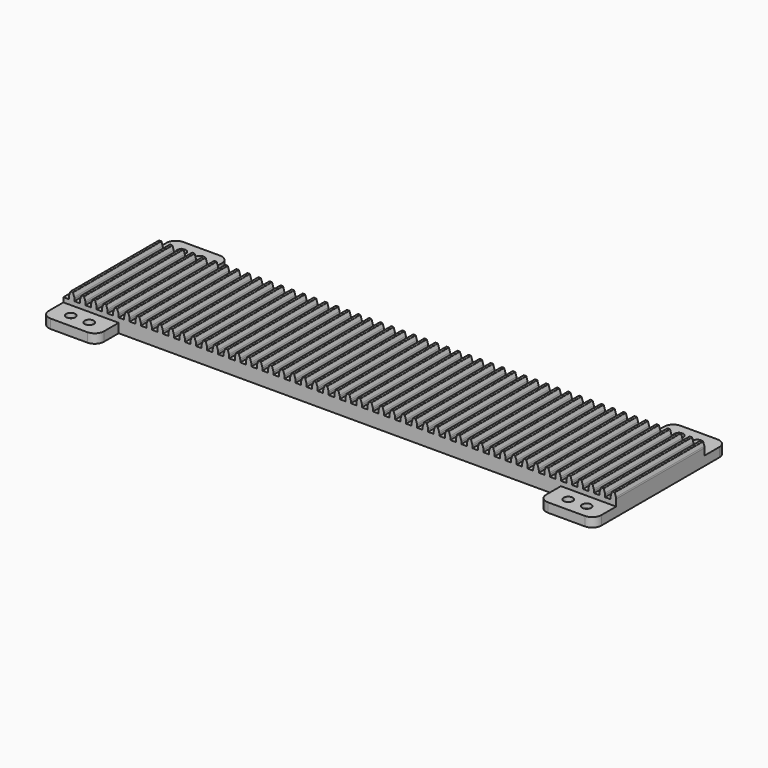
from build123d import *

# Parameters (mm, degrees)
F1_DEPTH       = 12.7
F2_W           = 762
F2_H           = 152.4
F3_DEPTH       = 6.35
F4_D           = 6.35
F4_CBORE_D     = 12.7
F4_CBORE_DEPTH = 6.35
F7_DEPTH       = 152.4


with BuildPart() as f1:
    # F0 (on Top) → F1 (new body)
    with BuildSketch(Plane.XY):
        with BuildLine():
            Line((0, 215.9), (0, 12.7))
            ThreePointArc((0, 12.7), (3.719744, 3.719744), (12.7, 0))
            Line((12.7, 0), (63.5, 0))
            ThreePointArc((63.5, 0), (72.480256, 3.719744), (76.2, 12.7))
            Line((76.2, 12.7), (76.2, 38.1))
            Line((76.2, 38.1), (381, 38.1))
            Line((381, 38.1), (685.8, 38.1))
            Line((685.8, 38.1), (685.8, 12.7))
            ThreePointArc((685.8, 12.7), (689.519744, 3.719744), (698.5, 0))
            Line((698.5, 0), (749.3, 0))
            ThreePointArc((749.3, 0), (758.280256, 3.719744), (762, 12.7))
            Line((762, 12.7), (762, 215.9))
            ThreePointArc((762, 215.9), (758.280256, 224.880256), (749.3, 228.6))
            Line((749.3, 228.6), (698.5, 228.6))
            ThreePointArc((698.5, 228.6), (689.519744, 224.880256), (685.8, 215.9))
            Line((685.8, 215.9), (685.8, 190.5))
            Line((685.8, 190.5), (381, 190.5))
            Line((381, 190.5), (76.2, 190.5))
            Line((76.2, 190.5), (76.2, 215.9))
            ThreePointArc((76.2, 215.9), (72.480256, 224.880256), (63.5, 228.6))
            Line((63.5, 228.6), (12.7, 228.6))
            ThreePointArc((12.7, 228.6), (3.719744, 224.880256), (0, 215.9))
        make_face()
    extrude(amount=F1_DEPTH)

    # F2 (on face) → F3 (join)
    with BuildSketch(Plane.XY.offset(12.7)):
        with Locations((381, 114.3)):
            Rectangle(F2_W, F2_H)
    extrude(amount=F3_DEPTH)

    # F4 (through all)
    with Locations(Plane.XY.offset(12.7)):
        with Locations((736.6, 209.55), (711.2, 209.55), (736.6, 19.05), (711.2, 19.05), (50.8, 209.55), (25.4, 209.55), (50.8, 19.05), (25.4, 19.05)):
            CounterBoreHole(F4_D / 2, F4_CBORE_D / 2, F4_CBORE_DEPTH)

    # F6 (on face) → F7 (join)
    with BuildSketch(Plane.XZ.offset(-38.1)):
        with BuildLine():
            Line((7.62, 21.992523), (7.62, 19.05))
            Line((7.62, 19.05), (15.24, 19.05))
            Line((15.24, 19.05), (15.24, 21.992523))
            ThreePointArc((15.24, 21.992523), (15.15965, 22.999495), (14.920632, 23.980983))
            Line((14.920632, 23.980983), (13.340298, 28.773846))
            ThreePointArc((13.340298, 28.773846), (13.109362, 29.089535), (12.737235, 29.21))
            Line((12.737235, 29.21), (11.43, 29.21))
            Line((11.43, 29.21), (10.122765, 29.21))
            ThreePointArc((10.122765, 29.21), (9.750638, 29.089535), (9.519702, 28.773846))
            Line((9.519702, 28.773846), (7.939368, 23.980983))
            ThreePointArc((7.939368, 23.980983), (7.70035, 22.999495), (7.62, 21.992523))
        make_face()
        with BuildLine():
            ThreePointArc((28.580298, 28.773846), (28.349362, 29.089535), (27.977235, 29.21))
            Line((27.977235, 29.21), (26.67, 29.21))
            Line((26.67, 29.21), (25.362765, 29.21))
            ThreePointArc((25.362765, 29.21), (24.990638, 29.089535), (24.759702, 28.773846))
            Line((24.759702, 28.773846), (23.179368, 23.980983))
            ThreePointArc((23.179368, 23.980983), (22.94035, 22.999495), (22.86, 21.992523))
            Line((22.86, 21.992523), (22.86, 19.05))
            Line((22.86, 19.05), (30.48, 19.05))
            Line((30.48, 19.05), (30.48, 21.992523))
            ThreePointArc((30.48, 21.992523), (30.39965, 22.999495), (30.160632, 23.980983))
            Line((30.160632, 23.980983), (28.580298, 28.773846))
        make_face()
        with BuildLine():
            ThreePointArc((43.820298, 28.773846), (43.589362, 29.089535), (43.217235, 29.21))
            Line((43.217235, 29.21), (41.91, 29.21))
            Line((41.91, 29.21), (40.602765, 29.21))
            ThreePointArc((40.602765, 29.21), (40.230638, 29.089535), (39.999702, 28.773846))
            Line((39.999702, 28.773846), (38.419368, 23.980983))
            ThreePointArc((38.419368, 23.980983), (38.18035, 22.999495), (38.1, 21.992523))
            Line((38.1, 21.992523), (38.1, 19.05))
            Line((38.1, 19.05), (45.72, 19.05))
            Line((45.72, 19.05), (45.72, 21.992523))
            ThreePointArc((45.72, 21.992523), (45.63965, 22.999495), (45.400632, 23.980983))
            Line((45.400632, 23.980983), (43.820298, 28.773846))
        make_face()
        with BuildLine():
            ThreePointArc((59.060298, 28.773846), (58.829362, 29.089535), (58.457235, 29.21))
            Line((58.457235, 29.21), (57.15, 29.21))
            Line((57.15, 29.21), (55.842765, 29.21))
            ThreePointArc((55.842765, 29.21), (55.470638, 29.089535), (55.239702, 28.773846))
            Line((55.239702, 28.773846), (53.659368, 23.980983))
            ThreePointArc((53.659368, 23.980983), (53.42035, 22.999495), (53.34, 21.992523))
            Line((53.34, 21.992523), (53.34, 19.05))
            Line((53.34, 19.05), (60.96, 19.05))
            Line((60.96, 19.05), (60.96, 21.992523))
            ThreePointArc((60.96, 21.992523), (60.87965, 22.999495), (60.640632, 23.980983))
            Line((60.640632, 23.980983), (59.060298, 28.773846))
        make_face()
        with BuildLine():
            ThreePointArc((74.300298, 28.773846), (74.069362, 29.089535), (73.697235, 29.21))
            Line((73.697235, 29.21), (72.39, 29.21))
            Line((72.39, 29.21), (71.082765, 29.21))
            ThreePointArc((71.082765, 29.21), (70.710638, 29.089535), (70.479702, 28.773846))
            Line((70.479702, 28.773846), (68.899368, 23.980983))
            ThreePointArc((68.899368, 23.980983), (68.66035, 22.999495), (68.58, 21.992523))
            Line((68.58, 21.992523), (68.58, 19.05))
            Line((68.58, 19.05), (76.2, 19.05))
            Line((76.2, 19.05), (76.2, 21.992523))
            ThreePointArc((76.2, 21.992523), (76.11965, 22.999495), (75.880632, 23.980983))
            Line((75.880632, 23.980983), (74.300298, 28.773846))
        make_face()
        with BuildLine():
            ThreePointArc((89.540298, 28.773846), (89.309362, 29.089535), (88.937235, 29.21))
            Line((88.937235, 29.21), (87.63, 29.21))
            Line((87.63, 29.21), (86.322765, 29.21))
            ThreePointArc((86.322765, 29.21), (85.950638, 29.089535), (85.719702, 28.773846))
            Line((85.719702, 28.773846), (84.139368, 23.980983))
            ThreePointArc((84.139368, 23.980983), (83.90035, 22.999495), (83.82, 21.992523))
            Line((83.82, 21.992523), (83.82, 19.05))
            Line((83.82, 19.05), (91.44, 19.05))
            Line((91.44, 19.05), (91.44, 21.992523))
            ThreePointArc((91.44, 21.992523), (91.35965, 22.999495), (91.120632, 23.980983))
            Line((91.120632, 23.980983), (89.540298, 28.773846))
        make_face()
        with BuildLine():
            ThreePointArc((104.780298, 28.773846), (104.549362, 29.089535), (104.177235, 29.21))
            Line((104.177235, 29.21), (102.87, 29.21))
            Line((102.87, 29.21), (101.562765, 29.21))
            ThreePointArc((101.562765, 29.21), (101.190638, 29.089535), (100.959702, 28.773846))
            Line((100.959702, 28.773846), (99.379368, 23.980983))
            ThreePointArc((99.379368, 23.980983), (99.14035, 22.999495), (99.06, 21.992523))
            Line((99.06, 21.992523), (99.06, 19.05))
            Line((99.06, 19.05), (106.68, 19.05))
            Line((106.68, 19.05), (106.68, 21.992523))
            ThreePointArc((106.68, 21.992523), (106.59965, 22.999495), (106.360632, 23.980983))
            Line((106.360632, 23.980983), (104.780298, 28.773846))
        make_face()
        with BuildLine():
            ThreePointArc((120.020298, 28.773846), (119.789362, 29.089535), (119.417235, 29.21))
            Line((119.417235, 29.21), (118.11, 29.21))
            Line((118.11, 29.21), (116.802765, 29.21))
            ThreePointArc((116.802765, 29.21), (116.430638, 29.089535), (116.199702, 28.773846))
            Line((116.199702, 28.773846), (114.619368, 23.980983))
            ThreePointArc((114.619368, 23.980983), (114.38035, 22.999495), (114.3, 21.992523))
            Line((114.3, 21.992523), (114.3, 19.05))
            Line((114.3, 19.05), (121.92, 19.05))
            Line((121.92, 19.05), (121.92, 21.992523))
            ThreePointArc((121.92, 21.992523), (121.83965, 22.999495), (121.600632, 23.980983))
            Line((121.600632, 23.980983), (120.020298, 28.773846))
        make_face()
        with BuildLine():
            ThreePointArc((135.260298, 28.773846), (135.029362, 29.089535), (134.657235, 29.21))
            Line((134.657235, 29.21), (133.35, 29.21))
            Line((133.35, 29.21), (132.042765, 29.21))
            ThreePointArc((132.042765, 29.21), (131.670638, 29.089535), (131.439702, 28.773846))
            Line((131.439702, 28.773846), (129.859368, 23.980983))
            ThreePointArc((129.859368, 23.980983), (129.62035, 22.999495), (129.54, 21.992523))
            Line((129.54, 21.992523), (129.54, 19.05))
            Line((129.54, 19.05), (137.16, 19.05))
            Line((137.16, 19.05), (137.16, 21.992523))
            ThreePointArc((137.16, 21.992523), (137.07965, 22.999495), (136.840632, 23.980983))
            Line((136.840632, 23.980983), (135.260298, 28.773846))
        make_face()
        with BuildLine():
            ThreePointArc((150.500298, 28.773846), (150.269362, 29.089535), (149.897235, 29.21))
            Line((149.897235, 29.21), (148.59, 29.21))
            Line((148.59, 29.21), (147.282765, 29.21))
            ThreePointArc((147.282765, 29.21), (146.910638, 29.089535), (146.679702, 28.773846))
            Line((146.679702, 28.773846), (145.099368, 23.980983))
            ThreePointArc((145.099368, 23.980983), (144.86035, 22.999495), (144.78, 21.992523))
            Line((144.78, 21.992523), (144.78, 19.05))
            Line((144.78, 19.05), (152.4, 19.05))
            Line((152.4, 19.05), (152.4, 21.992523))
            ThreePointArc((152.4, 21.992523), (152.31965, 22.999495), (152.080632, 23.980983))
            Line((152.080632, 23.980983), (150.500298, 28.773846))
        make_face()
        with BuildLine():
            ThreePointArc((165.740298, 28.773846), (165.509362, 29.089535), (165.137235, 29.21))
            Line((165.137235, 29.21), (163.83, 29.21))
            Line((163.83, 29.21), (162.522765, 29.21))
            ThreePointArc((162.522765, 29.21), (162.150638, 29.089535), (161.919702, 28.773846))
            Line((161.919702, 28.773846), (160.339368, 23.980983))
            ThreePointArc((160.339368, 23.980983), (160.10035, 22.999495), (160.02, 21.992523))
            Line((160.02, 21.992523), (160.02, 19.05))
            Line((160.02, 19.05), (167.64, 19.05))
            Line((167.64, 19.05), (167.64, 21.992523))
            ThreePointArc((167.64, 21.992523), (167.55965, 22.999495), (167.320632, 23.980983))
            Line((167.320632, 23.980983), (165.740298, 28.773846))
        make_face()
        with BuildLine():
            ThreePointArc((180.980298, 28.773846), (180.749362, 29.089535), (180.377235, 29.21))
            Line((180.377235, 29.21), (179.07, 29.21))
            Line((179.07, 29.21), (177.762765, 29.21))
            ThreePointArc((177.762765, 29.21), (177.390638, 29.089535), (177.159702, 28.773846))
            Line((177.159702, 28.773846), (175.579368, 23.980983))
            ThreePointArc((175.579368, 23.980983), (175.34035, 22.999495), (175.26, 21.992523))
            Line((175.26, 21.992523), (175.26, 19.05))
            Line((175.26, 19.05), (182.88, 19.05))
            Line((182.88, 19.05), (182.88, 21.992523))
            ThreePointArc((182.88, 21.992523), (182.79965, 22.999495), (182.560632, 23.980983))
            Line((182.560632, 23.980983), (180.980298, 28.773846))
        make_face()
        with BuildLine():
            ThreePointArc((196.220298, 28.773846), (195.989362, 29.089535), (195.617235, 29.21))
            Line((195.617235, 29.21), (194.31, 29.21))
            Line((194.31, 29.21), (193.002765, 29.21))
            ThreePointArc((193.002765, 29.21), (192.630638, 29.089535), (192.399702, 28.773846))
            Line((192.399702, 28.773846), (190.819368, 23.980983))
            ThreePointArc((190.819368, 23.980983), (190.58035, 22.999495), (190.5, 21.992523))
            Line((190.5, 21.992523), (190.5, 19.05))
            Line((190.5, 19.05), (198.12, 19.05))
            Line((198.12, 19.05), (198.12, 21.992523))
            ThreePointArc((198.12, 21.992523), (198.03965, 22.999495), (197.800632, 23.980983))
            Line((197.800632, 23.980983), (196.220298, 28.773846))
        make_face()
        with BuildLine():
            ThreePointArc((211.460298, 28.773846), (211.229362, 29.089535), (210.857235, 29.21))
            Line((210.857235, 29.21), (209.55, 29.21))
            Line((209.55, 29.21), (208.242765, 29.21))
            ThreePointArc((208.242765, 29.21), (207.870638, 29.089535), (207.639702, 28.773846))
            Line((207.639702, 28.773846), (206.059368, 23.980983))
            ThreePointArc((206.059368, 23.980983), (205.82035, 22.999495), (205.74, 21.992523))
            Line((205.74, 21.992523), (205.74, 19.05))
            Line((205.74, 19.05), (213.36, 19.05))
            Line((213.36, 19.05), (213.36, 21.992523))
            ThreePointArc((213.36, 21.992523), (213.27965, 22.999495), (213.040632, 23.980983))
            Line((213.040632, 23.980983), (211.460298, 28.773846))
        make_face()
        with BuildLine():
            ThreePointArc((226.700298, 28.773846), (226.469362, 29.089535), (226.097235, 29.21))
            Line((226.097235, 29.21), (224.79, 29.21))
            Line((224.79, 29.21), (223.482765, 29.21))
            ThreePointArc((223.482765, 29.21), (223.110638, 29.089535), (222.879702, 28.773846))
            Line((222.879702, 28.773846), (221.299368, 23.980983))
            ThreePointArc((221.299368, 23.980983), (221.06035, 22.999495), (220.98, 21.992523))
            Line((220.98, 21.992523), (220.98, 19.05))
            Line((220.98, 19.05), (228.6, 19.05))
            Line((228.6, 19.05), (228.6, 21.992523))
            ThreePointArc((228.6, 21.992523), (228.51965, 22.999495), (228.280632, 23.980983))
            Line((228.280632, 23.980983), (226.700298, 28.773846))
        make_face()
        with BuildLine():
            ThreePointArc((241.940298, 28.773846), (241.709362, 29.089535), (241.337235, 29.21))
            Line((241.337235, 29.21), (240.03, 29.21))
            Line((240.03, 29.21), (238.722765, 29.21))
            ThreePointArc((238.722765, 29.21), (238.350638, 29.089535), (238.119702, 28.773846))
            Line((238.119702, 28.773846), (236.539368, 23.980983))
            ThreePointArc((236.539368, 23.980983), (236.30035, 22.999495), (236.22, 21.992523))
            Line((236.22, 21.992523), (236.22, 19.05))
            Line((236.22, 19.05), (243.84, 19.05))
            Line((243.84, 19.05), (243.84, 21.992523))
            ThreePointArc((243.84, 21.992523), (243.75965, 22.999495), (243.520632, 23.980983))
            Line((243.520632, 23.980983), (241.940298, 28.773846))
        make_face()
        with BuildLine():
            ThreePointArc((257.180298, 28.773846), (256.949362, 29.089535), (256.577235, 29.21))
            Line((256.577235, 29.21), (255.27, 29.21))
            Line((255.27, 29.21), (253.962765, 29.21))
            ThreePointArc((253.962765, 29.21), (253.590638, 29.089535), (253.359702, 28.773846))
            Line((253.359702, 28.773846), (251.779368, 23.980983))
            ThreePointArc((251.779368, 23.980983), (251.54035, 22.999495), (251.46, 21.992523))
            Line((251.46, 21.992523), (251.46, 19.05))
            Line((251.46, 19.05), (259.08, 19.05))
            Line((259.08, 19.05), (259.08, 21.992523))
            ThreePointArc((259.08, 21.992523), (258.99965, 22.999495), (258.760632, 23.980983))
            Line((258.760632, 23.980983), (257.180298, 28.773846))
        make_face()
        with BuildLine():
            ThreePointArc((272.420298, 28.773846), (272.189362, 29.089535), (271.817235, 29.21))
            Line((271.817235, 29.21), (270.51, 29.21))
            Line((270.51, 29.21), (269.202765, 29.21))
            ThreePointArc((269.202765, 29.21), (268.830638, 29.089535), (268.599702, 28.773846))
            Line((268.599702, 28.773846), (267.019368, 23.980983))
            ThreePointArc((267.019368, 23.980983), (266.78035, 22.999495), (266.7, 21.992523))
            Line((266.7, 21.992523), (266.7, 19.05))
            Line((266.7, 19.05), (274.32, 19.05))
            Line((274.32, 19.05), (274.32, 21.992523))
            ThreePointArc((274.32, 21.992523), (274.23965, 22.999495), (274.000632, 23.980983))
            Line((274.000632, 23.980983), (272.420298, 28.773846))
        make_face()
        with BuildLine():
            ThreePointArc((287.660298, 28.773846), (287.429362, 29.089535), (287.057235, 29.21))
            Line((287.057235, 29.21), (285.75, 29.21))
            Line((285.75, 29.21), (284.442765, 29.21))
            ThreePointArc((284.442765, 29.21), (284.070638, 29.089535), (283.839702, 28.773846))
            Line((283.839702, 28.773846), (282.259368, 23.980983))
            ThreePointArc((282.259368, 23.980983), (282.02035, 22.999495), (281.94, 21.992523))
            Line((281.94, 21.992523), (281.94, 19.05))
            Line((281.94, 19.05), (289.56, 19.05))
            Line((289.56, 19.05), (289.56, 21.992523))
            ThreePointArc((289.56, 21.992523), (289.47965, 22.999495), (289.240632, 23.980983))
            Line((289.240632, 23.980983), (287.660298, 28.773846))
        make_face()
        with BuildLine():
            ThreePointArc((302.900298, 28.773846), (302.669362, 29.089535), (302.297235, 29.21))
            Line((302.297235, 29.21), (300.99, 29.21))
            Line((300.99, 29.21), (299.682765, 29.21))
            ThreePointArc((299.682765, 29.21), (299.310638, 29.089535), (299.079702, 28.773846))
            Line((299.079702, 28.773846), (297.499368, 23.980983))
            ThreePointArc((297.499368, 23.980983), (297.26035, 22.999495), (297.18, 21.992523))
            Line((297.18, 21.992523), (297.18, 19.05))
            Line((297.18, 19.05), (304.8, 19.05))
            Line((304.8, 19.05), (304.8, 21.992523))
            ThreePointArc((304.8, 21.992523), (304.71965, 22.999495), (304.480632, 23.980983))
            Line((304.480632, 23.980983), (302.900298, 28.773846))
        make_face()
        with BuildLine():
            ThreePointArc((318.140298, 28.773846), (317.909362, 29.089535), (317.537235, 29.21))
            Line((317.537235, 29.21), (316.23, 29.21))
            Line((316.23, 29.21), (314.922765, 29.21))
            ThreePointArc((314.922765, 29.21), (314.550638, 29.089535), (314.319702, 28.773846))
            Line((314.319702, 28.773846), (312.739368, 23.980983))
            ThreePointArc((312.739368, 23.980983), (312.50035, 22.999495), (312.42, 21.992523))
            Line((312.42, 21.992523), (312.42, 19.05))
            Line((312.42, 19.05), (320.04, 19.05))
            Line((320.04, 19.05), (320.04, 21.992523))
            ThreePointArc((320.04, 21.992523), (319.95965, 22.999495), (319.720632, 23.980983))
            Line((319.720632, 23.980983), (318.140298, 28.773846))
        make_face()
        with BuildLine():
            ThreePointArc((333.380298, 28.773846), (333.149362, 29.089535), (332.777235, 29.21))
            Line((332.777235, 29.21), (331.47, 29.21))
            Line((331.47, 29.21), (330.162765, 29.21))
            ThreePointArc((330.162765, 29.21), (329.790638, 29.089535), (329.559702, 28.773846))
            Line((329.559702, 28.773846), (327.979368, 23.980983))
            ThreePointArc((327.979368, 23.980983), (327.74035, 22.999495), (327.66, 21.992523))
            Line((327.66, 21.992523), (327.66, 19.05))
            Line((327.66, 19.05), (335.28, 19.05))
            Line((335.28, 19.05), (335.28, 21.992523))
            ThreePointArc((335.28, 21.992523), (335.19965, 22.999495), (334.960632, 23.980983))
            Line((334.960632, 23.980983), (333.380298, 28.773846))
        make_face()
        with BuildLine():
            ThreePointArc((348.620298, 28.773846), (348.389362, 29.089535), (348.017235, 29.21))
            Line((348.017235, 29.21), (346.71, 29.21))
            Line((346.71, 29.21), (345.402765, 29.21))
            ThreePointArc((345.402765, 29.21), (345.030638, 29.089535), (344.799702, 28.773846))
            Line((344.799702, 28.773846), (343.219368, 23.980983))
            ThreePointArc((343.219368, 23.980983), (342.98035, 22.999495), (342.9, 21.992523))
            Line((342.9, 21.992523), (342.9, 19.05))
            Line((342.9, 19.05), (350.52, 19.05))
            Line((350.52, 19.05), (350.52, 21.992523))
            ThreePointArc((350.52, 21.992523), (350.43965, 22.999495), (350.200632, 23.980983))
            Line((350.200632, 23.980983), (348.620298, 28.773846))
        make_face()
        with BuildLine():
            ThreePointArc((363.860298, 28.773846), (363.629362, 29.089535), (363.257235, 29.21))
            Line((363.257235, 29.21), (361.95, 29.21))
            Line((361.95, 29.21), (360.642765, 29.21))
            ThreePointArc((360.642765, 29.21), (360.270638, 29.089535), (360.039702, 28.773846))
            Line((360.039702, 28.773846), (358.459368, 23.980983))
            ThreePointArc((358.459368, 23.980983), (358.22035, 22.999495), (358.14, 21.992523))
            Line((358.14, 21.992523), (358.14, 19.05))
            Line((358.14, 19.05), (365.76, 19.05))
            Line((365.76, 19.05), (365.76, 21.992523))
            ThreePointArc((365.76, 21.992523), (365.67965, 22.999495), (365.440632, 23.980983))
            Line((365.440632, 23.980983), (363.860298, 28.773846))
        make_face()
        with BuildLine():
            ThreePointArc((379.100298, 28.773846), (378.869362, 29.089535), (378.497235, 29.21))
            Line((378.497235, 29.21), (377.19, 29.21))
            Line((377.19, 29.21), (375.882765, 29.21))
            ThreePointArc((375.882765, 29.21), (375.510638, 29.089535), (375.279702, 28.773846))
            Line((375.279702, 28.773846), (373.699368, 23.980983))
            ThreePointArc((373.699368, 23.980983), (373.46035, 22.999495), (373.38, 21.992523))
            Line((373.38, 21.992523), (373.38, 19.05))
            Line((373.38, 19.05), (381, 19.05))
            Line((381, 19.05), (381, 21.992523))
            ThreePointArc((381, 21.992523), (380.91965, 22.999495), (380.680632, 23.980983))
            Line((380.680632, 23.980983), (379.100298, 28.773846))
        make_face()
        with BuildLine():
            ThreePointArc((394.340298, 28.773846), (394.109362, 29.089535), (393.737235, 29.21))
            Line((393.737235, 29.21), (392.43, 29.21))
            Line((392.43, 29.21), (391.122765, 29.21))
            ThreePointArc((391.122765, 29.21), (390.750638, 29.089535), (390.519702, 28.773846))
            Line((390.519702, 28.773846), (388.939368, 23.980983))
            ThreePointArc((388.939368, 23.980983), (388.70035, 22.999495), (388.62, 21.992523))
            Line((388.62, 21.992523), (388.62, 19.05))
            Line((388.62, 19.05), (396.24, 19.05))
            Line((396.24, 19.05), (396.24, 21.992523))
            ThreePointArc((396.24, 21.992523), (396.15965, 22.999495), (395.920632, 23.980983))
            Line((395.920632, 23.980983), (394.340298, 28.773846))
        make_face()
        with BuildLine():
            ThreePointArc((409.580298, 28.773846), (409.349362, 29.089535), (408.977235, 29.21))
            Line((408.977235, 29.21), (407.67, 29.21))
            Line((407.67, 29.21), (406.362765, 29.21))
            ThreePointArc((406.362765, 29.21), (405.990638, 29.089535), (405.759702, 28.773846))
            Line((405.759702, 28.773846), (404.179368, 23.980983))
            ThreePointArc((404.179368, 23.980983), (403.94035, 22.999495), (403.86, 21.992523))
            Line((403.86, 21.992523), (403.86, 19.05))
            Line((403.86, 19.05), (411.48, 19.05))
            Line((411.48, 19.05), (411.48, 21.992523))
            ThreePointArc((411.48, 21.992523), (411.39965, 22.999495), (411.160632, 23.980983))
            Line((411.160632, 23.980983), (409.580298, 28.773846))
        make_face()
        with BuildLine():
            ThreePointArc((424.820298, 28.773846), (424.589362, 29.089535), (424.217235, 29.21))
            Line((424.217235, 29.21), (422.91, 29.21))
            Line((422.91, 29.21), (421.602765, 29.21))
            ThreePointArc((421.602765, 29.21), (421.230638, 29.089535), (420.999702, 28.773846))
            Line((420.999702, 28.773846), (419.419368, 23.980983))
            ThreePointArc((419.419368, 23.980983), (419.18035, 22.999495), (419.1, 21.992523))
            Line((419.1, 21.992523), (419.1, 19.05))
            Line((419.1, 19.05), (426.72, 19.05))
            Line((426.72, 19.05), (426.72, 21.992523))
            ThreePointArc((426.72, 21.992523), (426.63965, 22.999495), (426.400632, 23.980983))
            Line((426.400632, 23.980983), (424.820298, 28.773846))
        make_face()
        with BuildLine():
            ThreePointArc((440.060298, 28.773846), (439.829362, 29.089535), (439.457235, 29.21))
            Line((439.457235, 29.21), (438.15, 29.21))
            Line((438.15, 29.21), (436.842765, 29.21))
            ThreePointArc((436.842765, 29.21), (436.470638, 29.089535), (436.239702, 28.773846))
            Line((436.239702, 28.773846), (434.659368, 23.980983))
            ThreePointArc((434.659368, 23.980983), (434.42035, 22.999495), (434.34, 21.992523))
            Line((434.34, 21.992523), (434.34, 19.05))
            Line((434.34, 19.05), (441.96, 19.05))
            Line((441.96, 19.05), (441.96, 21.992523))
            ThreePointArc((441.96, 21.992523), (441.87965, 22.999495), (441.640632, 23.980983))
            Line((441.640632, 23.980983), (440.060298, 28.773846))
        make_face()
        with BuildLine():
            ThreePointArc((455.300298, 28.773846), (455.069362, 29.089535), (454.697235, 29.21))
            Line((454.697235, 29.21), (453.39, 29.21))
            Line((453.39, 29.21), (452.082765, 29.21))
            ThreePointArc((452.082765, 29.21), (451.710638, 29.089535), (451.479702, 28.773846))
            Line((451.479702, 28.773846), (449.899368, 23.980983))
            ThreePointArc((449.899368, 23.980983), (449.66035, 22.999495), (449.58, 21.992523))
            Line((449.58, 21.992523), (449.58, 19.05))
            Line((449.58, 19.05), (457.2, 19.05))
            Line((457.2, 19.05), (457.2, 21.992523))
            ThreePointArc((457.2, 21.992523), (457.11965, 22.999495), (456.880632, 23.980983))
            Line((456.880632, 23.980983), (455.300298, 28.773846))
        make_face()
        with BuildLine():
            ThreePointArc((470.540298, 28.773846), (470.309362, 29.089535), (469.937235, 29.21))
            Line((469.937235, 29.21), (468.63, 29.21))
            Line((468.63, 29.21), (467.322765, 29.21))
            ThreePointArc((467.322765, 29.21), (466.950638, 29.089535), (466.719702, 28.773846))
            Line((466.719702, 28.773846), (465.139368, 23.980983))
            ThreePointArc((465.139368, 23.980983), (464.90035, 22.999495), (464.82, 21.992523))
            Line((464.82, 21.992523), (464.82, 19.05))
            Line((464.82, 19.05), (472.44, 19.05))
            Line((472.44, 19.05), (472.44, 21.992523))
            ThreePointArc((472.44, 21.992523), (472.35965, 22.999495), (472.120632, 23.980983))
            Line((472.120632, 23.980983), (470.540298, 28.773846))
        make_face()
        with BuildLine():
            ThreePointArc((485.780298, 28.773846), (485.549362, 29.089535), (485.177235, 29.21))
            Line((485.177235, 29.21), (483.87, 29.21))
            Line((483.87, 29.21), (482.562765, 29.21))
            ThreePointArc((482.562765, 29.21), (482.190638, 29.089535), (481.959702, 28.773846))
            Line((481.959702, 28.773846), (480.379368, 23.980983))
            ThreePointArc((480.379368, 23.980983), (480.14035, 22.999495), (480.06, 21.992523))
            Line((480.06, 21.992523), (480.06, 19.05))
            Line((480.06, 19.05), (487.68, 19.05))
            Line((487.68, 19.05), (487.68, 21.992523))
            ThreePointArc((487.68, 21.992523), (487.59965, 22.999495), (487.360632, 23.980983))
            Line((487.360632, 23.980983), (485.780298, 28.773846))
        make_face()
        with BuildLine():
            ThreePointArc((501.020298, 28.773846), (500.789362, 29.089535), (500.417235, 29.21))
            Line((500.417235, 29.21), (499.11, 29.21))
            Line((499.11, 29.21), (497.802765, 29.21))
            ThreePointArc((497.802765, 29.21), (497.430638, 29.089535), (497.199702, 28.773846))
            Line((497.199702, 28.773846), (495.619368, 23.980983))
            ThreePointArc((495.619368, 23.980983), (495.38035, 22.999495), (495.3, 21.992523))
            Line((495.3, 21.992523), (495.3, 19.05))
            Line((495.3, 19.05), (502.92, 19.05))
            Line((502.92, 19.05), (502.92, 21.992523))
            ThreePointArc((502.92, 21.992523), (502.83965, 22.999495), (502.600632, 23.980983))
            Line((502.600632, 23.980983), (501.020298, 28.773846))
        make_face()
        with BuildLine():
            ThreePointArc((516.260298, 28.773846), (516.029362, 29.089535), (515.657235, 29.21))
            Line((515.657235, 29.21), (514.35, 29.21))
            Line((514.35, 29.21), (513.042765, 29.21))
            ThreePointArc((513.042765, 29.21), (512.670638, 29.089535), (512.439702, 28.773846))
            Line((512.439702, 28.773846), (510.859368, 23.980983))
            ThreePointArc((510.859368, 23.980983), (510.62035, 22.999495), (510.54, 21.992523))
            Line((510.54, 21.992523), (510.54, 19.05))
            Line((510.54, 19.05), (518.16, 19.05))
            Line((518.16, 19.05), (518.16, 21.992523))
            ThreePointArc((518.16, 21.992523), (518.07965, 22.999495), (517.840632, 23.980983))
            Line((517.840632, 23.980983), (516.260298, 28.773846))
        make_face()
        with BuildLine():
            ThreePointArc((531.500298, 28.773846), (531.269362, 29.089535), (530.897235, 29.21))
            Line((530.897235, 29.21), (529.59, 29.21))
            Line((529.59, 29.21), (528.282765, 29.21))
            ThreePointArc((528.282765, 29.21), (527.910638, 29.089535), (527.679702, 28.773846))
            Line((527.679702, 28.773846), (526.099368, 23.980983))
            ThreePointArc((526.099368, 23.980983), (525.86035, 22.999495), (525.78, 21.992523))
            Line((525.78, 21.992523), (525.78, 19.05))
            Line((525.78, 19.05), (533.4, 19.05))
            Line((533.4, 19.05), (533.4, 21.992523))
            ThreePointArc((533.4, 21.992523), (533.31965, 22.999495), (533.080632, 23.980983))
            Line((533.080632, 23.980983), (531.500298, 28.773846))
        make_face()
        with BuildLine():
            ThreePointArc((546.740298, 28.773846), (546.509362, 29.089535), (546.137235, 29.21))
            Line((546.137235, 29.21), (544.83, 29.21))
            Line((544.83, 29.21), (543.522765, 29.21))
            ThreePointArc((543.522765, 29.21), (543.150638, 29.089535), (542.919702, 28.773846))
            Line((542.919702, 28.773846), (541.339368, 23.980983))
            ThreePointArc((541.339368, 23.980983), (541.10035, 22.999495), (541.02, 21.992523))
            Line((541.02, 21.992523), (541.02, 19.05))
            Line((541.02, 19.05), (548.64, 19.05))
            Line((548.64, 19.05), (548.64, 21.992523))
            ThreePointArc((548.64, 21.992523), (548.55965, 22.999495), (548.320632, 23.980983))
            Line((548.320632, 23.980983), (546.740298, 28.773846))
        make_face()
        with BuildLine():
            ThreePointArc((561.980298, 28.773846), (561.749362, 29.089535), (561.377235, 29.21))
            Line((561.377235, 29.21), (560.07, 29.21))
            Line((560.07, 29.21), (558.762765, 29.21))
            ThreePointArc((558.762765, 29.21), (558.390638, 29.089535), (558.159702, 28.773846))
            Line((558.159702, 28.773846), (556.579368, 23.980983))
            ThreePointArc((556.579368, 23.980983), (556.34035, 22.999495), (556.26, 21.992523))
            Line((556.26, 21.992523), (556.26, 19.05))
            Line((556.26, 19.05), (563.88, 19.05))
            Line((563.88, 19.05), (563.88, 21.992523))
            ThreePointArc((563.88, 21.992523), (563.79965, 22.999495), (563.560632, 23.980983))
            Line((563.560632, 23.980983), (561.980298, 28.773846))
        make_face()
        with BuildLine():
            ThreePointArc((577.220298, 28.773846), (576.989362, 29.089535), (576.617235, 29.21))
            Line((576.617235, 29.21), (575.31, 29.21))
            Line((575.31, 29.21), (574.002765, 29.21))
            ThreePointArc((574.002765, 29.21), (573.630638, 29.089535), (573.399702, 28.773846))
            Line((573.399702, 28.773846), (571.819368, 23.980983))
            ThreePointArc((571.819368, 23.980983), (571.58035, 22.999495), (571.5, 21.992523))
            Line((571.5, 21.992523), (571.5, 19.05))
            Line((571.5, 19.05), (579.12, 19.05))
            Line((579.12, 19.05), (579.12, 21.992523))
            ThreePointArc((579.12, 21.992523), (579.03965, 22.999495), (578.800632, 23.980983))
            Line((578.800632, 23.980983), (577.220298, 28.773846))
        make_face()
        with BuildLine():
            ThreePointArc((592.460298, 28.773846), (592.229362, 29.089535), (591.857235, 29.21))
            Line((591.857235, 29.21), (590.55, 29.21))
            Line((590.55, 29.21), (589.242765, 29.21))
            ThreePointArc((589.242765, 29.21), (588.870638, 29.089535), (588.639702, 28.773846))
            Line((588.639702, 28.773846), (587.059368, 23.980983))
            ThreePointArc((587.059368, 23.980983), (586.82035, 22.999495), (586.74, 21.992523))
            Line((586.74, 21.992523), (586.74, 19.05))
            Line((586.74, 19.05), (594.36, 19.05))
            Line((594.36, 19.05), (594.36, 21.992523))
            ThreePointArc((594.36, 21.992523), (594.27965, 22.999495), (594.040632, 23.980983))
            Line((594.040632, 23.980983), (592.460298, 28.773846))
        make_face()
        with BuildLine():
            ThreePointArc((607.700298, 28.773846), (607.469362, 29.089535), (607.097235, 29.21))
            Line((607.097235, 29.21), (605.79, 29.21))
            Line((605.79, 29.21), (604.482765, 29.21))
            ThreePointArc((604.482765, 29.21), (604.110638, 29.089535), (603.879702, 28.773846))
            Line((603.879702, 28.773846), (602.299368, 23.980983))
            ThreePointArc((602.299368, 23.980983), (602.06035, 22.999495), (601.98, 21.992523))
            Line((601.98, 21.992523), (601.98, 19.05))
            Line((601.98, 19.05), (609.6, 19.05))
            Line((609.6, 19.05), (609.6, 21.992523))
            ThreePointArc((609.6, 21.992523), (609.51965, 22.999495), (609.280632, 23.980983))
            Line((609.280632, 23.980983), (607.700298, 28.773846))
        make_face()
        with BuildLine():
            ThreePointArc((622.940298, 28.773846), (622.709362, 29.089535), (622.337235, 29.21))
            Line((622.337235, 29.21), (621.03, 29.21))
            Line((621.03, 29.21), (619.722765, 29.21))
            ThreePointArc((619.722765, 29.21), (619.350638, 29.089535), (619.119702, 28.773846))
            Line((619.119702, 28.773846), (617.539368, 23.980983))
            ThreePointArc((617.539368, 23.980983), (617.30035, 22.999495), (617.22, 21.992523))
            Line((617.22, 21.992523), (617.22, 19.05))
            Line((617.22, 19.05), (624.84, 19.05))
            Line((624.84, 19.05), (624.84, 21.992523))
            ThreePointArc((624.84, 21.992523), (624.75965, 22.999495), (624.520632, 23.980983))
            Line((624.520632, 23.980983), (622.940298, 28.773846))
        make_face()
        with BuildLine():
            ThreePointArc((638.180298, 28.773846), (637.949362, 29.089535), (637.577235, 29.21))
            Line((637.577235, 29.21), (636.27, 29.21))
            Line((636.27, 29.21), (634.962765, 29.21))
            ThreePointArc((634.962765, 29.21), (634.590638, 29.089535), (634.359702, 28.773846))
            Line((634.359702, 28.773846), (632.779368, 23.980983))
            ThreePointArc((632.779368, 23.980983), (632.54035, 22.999495), (632.46, 21.992523))
            Line((632.46, 21.992523), (632.46, 19.05))
            Line((632.46, 19.05), (640.08, 19.05))
            Line((640.08, 19.05), (640.08, 21.992523))
            ThreePointArc((640.08, 21.992523), (639.99965, 22.999495), (639.760632, 23.980983))
            Line((639.760632, 23.980983), (638.180298, 28.773846))
        make_face()
        with BuildLine():
            ThreePointArc((653.420298, 28.773846), (653.189362, 29.089535), (652.817235, 29.21))
            Line((652.817235, 29.21), (651.51, 29.21))
            Line((651.51, 29.21), (650.202765, 29.21))
            ThreePointArc((650.202765, 29.21), (649.830638, 29.089535), (649.599702, 28.773846))
            Line((649.599702, 28.773846), (648.019368, 23.980983))
            ThreePointArc((648.019368, 23.980983), (647.78035, 22.999495), (647.7, 21.992523))
            Line((647.7, 21.992523), (647.7, 19.05))
            Line((647.7, 19.05), (655.32, 19.05))
            Line((655.32, 19.05), (655.32, 21.992523))
            ThreePointArc((655.32, 21.992523), (655.23965, 22.999495), (655.000632, 23.980983))
            Line((655.000632, 23.980983), (653.420298, 28.773846))
        make_face()
        with BuildLine():
            ThreePointArc((668.660298, 28.773846), (668.429362, 29.089535), (668.057235, 29.21))
            Line((668.057235, 29.21), (666.75, 29.21))
            Line((666.75, 29.21), (665.442765, 29.21))
            ThreePointArc((665.442765, 29.21), (665.070638, 29.089535), (664.839702, 28.773846))
            Line((664.839702, 28.773846), (663.259368, 23.980983))
            ThreePointArc((663.259368, 23.980983), (663.02035, 22.999495), (662.94, 21.992523))
            Line((662.94, 21.992523), (662.94, 19.05))
            Line((662.94, 19.05), (670.56, 19.05))
            Line((670.56, 19.05), (670.56, 21.992523))
            ThreePointArc((670.56, 21.992523), (670.47965, 22.999495), (670.240632, 23.980983))
            Line((670.240632, 23.980983), (668.660298, 28.773846))
        make_face()
        with BuildLine():
            ThreePointArc((683.900298, 28.773846), (683.669362, 29.089535), (683.297235, 29.21))
            Line((683.297235, 29.21), (681.99, 29.21))
            Line((681.99, 29.21), (680.682765, 29.21))
            ThreePointArc((680.682765, 29.21), (680.310638, 29.089535), (680.079702, 28.773846))
            Line((680.079702, 28.773846), (678.499368, 23.980983))
            ThreePointArc((678.499368, 23.980983), (678.26035, 22.999495), (678.18, 21.992523))
            Line((678.18, 21.992523), (678.18, 19.05))
            Line((678.18, 19.05), (685.8, 19.05))
            Line((685.8, 19.05), (685.8, 21.992523))
            ThreePointArc((685.8, 21.992523), (685.71965, 22.999495), (685.480632, 23.980983))
            Line((685.480632, 23.980983), (683.900298, 28.773846))
        make_face()
        with BuildLine():
            ThreePointArc((699.140298, 28.773846), (698.909362, 29.089535), (698.537235, 29.21))
            Line((698.537235, 29.21), (697.23, 29.21))
            Line((697.23, 29.21), (695.922765, 29.21))
            ThreePointArc((695.922765, 29.21), (695.550638, 29.089535), (695.319702, 28.773846))
            Line((695.319702, 28.773846), (693.739368, 23.980983))
            ThreePointArc((693.739368, 23.980983), (693.50035, 22.999495), (693.42, 21.992523))
            Line((693.42, 21.992523), (693.42, 19.05))
            Line((693.42, 19.05), (701.04, 19.05))
            Line((701.04, 19.05), (701.04, 21.992523))
            ThreePointArc((701.04, 21.992523), (700.95965, 22.999495), (700.720632, 23.980983))
            Line((700.720632, 23.980983), (699.140298, 28.773846))
        make_face()
        with BuildLine():
            ThreePointArc((714.380298, 28.773846), (714.149362, 29.089535), (713.777235, 29.21))
            Line((713.777235, 29.21), (712.47, 29.21))
            Line((712.47, 29.21), (711.162765, 29.21))
            ThreePointArc((711.162765, 29.21), (710.790638, 29.089535), (710.559702, 28.773846))
            Line((710.559702, 28.773846), (708.979368, 23.980983))
            ThreePointArc((708.979368, 23.980983), (708.74035, 22.999495), (708.66, 21.992523))
            Line((708.66, 21.992523), (708.66, 19.05))
            Line((708.66, 19.05), (716.28, 19.05))
            Line((716.28, 19.05), (716.28, 21.992523))
            ThreePointArc((716.28, 21.992523), (716.19965, 22.999495), (715.960632, 23.980983))
            Line((715.960632, 23.980983), (714.380298, 28.773846))
        make_face()
        with BuildLine():
            ThreePointArc((729.620298, 28.773846), (729.389362, 29.089535), (729.017235, 29.21))
            Line((729.017235, 29.21), (727.71, 29.21))
            Line((727.71, 29.21), (726.402765, 29.21))
            ThreePointArc((726.402765, 29.21), (726.030638, 29.089535), (725.799702, 28.773846))
            Line((725.799702, 28.773846), (724.219368, 23.980983))
            ThreePointArc((724.219368, 23.980983), (723.98035, 22.999495), (723.9, 21.992523))
            Line((723.9, 21.992523), (723.9, 19.05))
            Line((723.9, 19.05), (731.52, 19.05))
            Line((731.52, 19.05), (731.52, 21.992523))
            ThreePointArc((731.52, 21.992523), (731.43965, 22.999495), (731.200632, 23.980983))
            Line((731.200632, 23.980983), (729.620298, 28.773846))
        make_face()
        with BuildLine():
            ThreePointArc((744.860298, 28.773846), (744.629362, 29.089535), (744.257235, 29.21))
            Line((744.257235, 29.21), (742.95, 29.21))
            Line((742.95, 29.21), (741.642765, 29.21))
            ThreePointArc((741.642765, 29.21), (741.270638, 29.089535), (741.039702, 28.773846))
            Line((741.039702, 28.773846), (739.459368, 23.980983))
            ThreePointArc((739.459368, 23.980983), (739.22035, 22.999495), (739.14, 21.992523))
            Line((739.14, 21.992523), (739.14, 19.05))
            Line((739.14, 19.05), (746.76, 19.05))
            Line((746.76, 19.05), (746.76, 21.992523))
            ThreePointArc((746.76, 21.992523), (746.67965, 22.999495), (746.440632, 23.980983))
            Line((746.440632, 23.980983), (744.860298, 28.773846))
        make_face()
        with BuildLine():
            ThreePointArc((760.100298, 28.773846), (759.869362, 29.089535), (759.497235, 29.21))
            Line((759.497235, 29.21), (758.19, 29.21))
            Line((758.19, 29.21), (756.882765, 29.21))
            ThreePointArc((756.882765, 29.21), (756.510638, 29.089535), (756.279702, 28.773846))
            Line((756.279702, 28.773846), (754.699368, 23.980983))
            ThreePointArc((754.699368, 23.980983), (754.46035, 22.999495), (754.38, 21.992523))
            Line((754.38, 21.992523), (754.38, 19.05))
            Line((754.38, 19.05), (762, 19.05))
            Line((762, 19.05), (762, 21.992523))
            ThreePointArc((762, 21.992523), (761.91965, 22.999495), (761.680632, 23.980983))
            Line((761.680632, 23.980983), (760.100298, 28.773846))
        make_face()
    extrude(amount=-F7_DEPTH)


solid = f1.part
